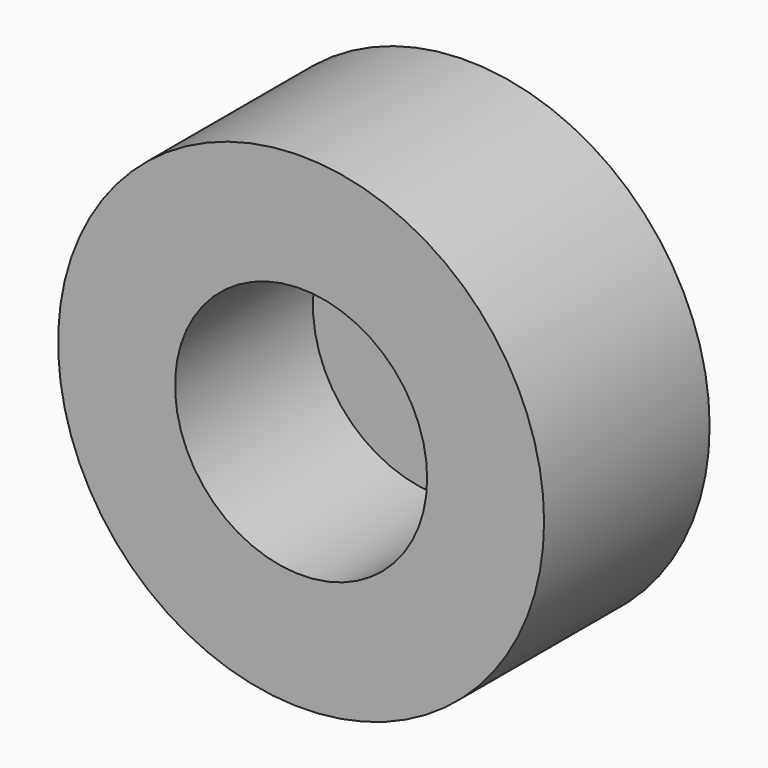
from build123d import *

# Parameters (mm, degrees)
F0_R     = 19.685
F1_DEPTH = 16.764
F2_R     = 10.212252
F3_DEPTH = 13.97
F4_R     = 3.175
F5_DEPTH = 12.192


with BuildPart() as f1:
    # F0 (on Front) → F1 (new body)
    with BuildSketch(Plane.XZ):
        Circle(F0_R)
    extrude(amount=F1_DEPTH)

    # F2 (on face) → F3 (cut)
    with BuildSketch(Plane.XZ.offset(16.764)):
        Circle(F2_R)
    extrude(amount=-F3_DEPTH, mode=Mode.SUBTRACT)

    # F4 (on face) → F5 (join)
    with BuildSketch(Plane(origin=(0, 0, 0), x_dir=(-1, 0, 0), z_dir=(0, 1, 0))):
        Circle(F4_R)
    extrude(amount=F5_DEPTH)


solid = f1.part
